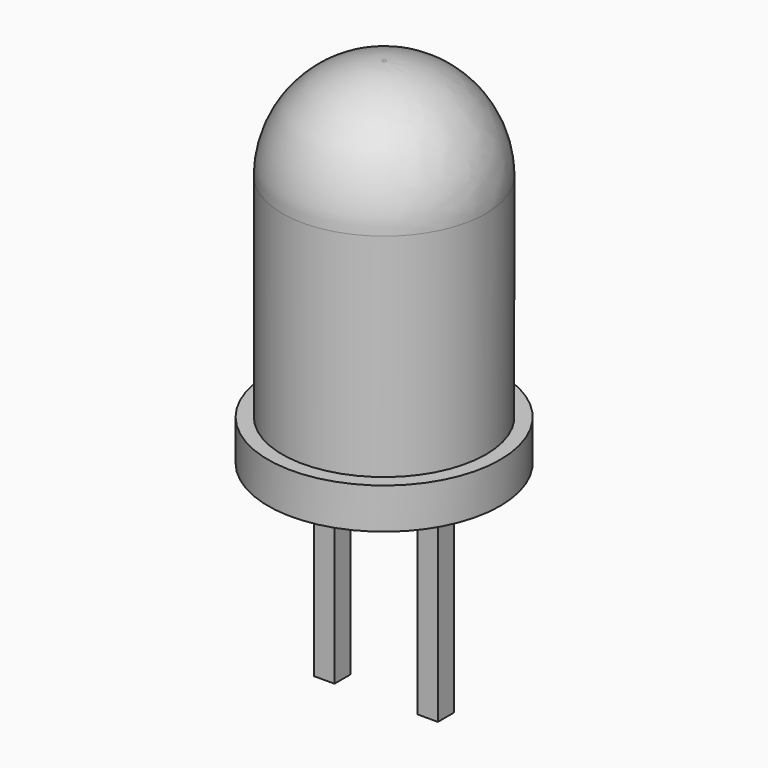
from build123d import *

# Parameters (mm, degrees)
SKETCH001_W = 0.5
SKETCH001_H = 0.5
PAD_DEPTH   = 5
FILLET_R    = 2.49


with BuildPart() as part:
    # Sketch → Revolution (revolve)
    with BuildSketch(Plane.XZ):
        with BuildLine():
            Line((0, 0), (2.85, 0))
            Line((2.85, 0), (2.85, 1))
            Line((2.85, 1), (2.5, 1))
            Line((2.5, 1), (2.5, 7.5))
            ThreePointArc((2.5, 7.5), (1.386542, 8.384463), (0, 8.7))
            Line((0, 0), (0, 8.7))
        make_face()
    revolve(axis=Axis((0, 0, 0), (0, 0, 1)))

    # Sketch001 (on Face1 of Revolution) → Pad (new body)
    with BuildSketch(Plane(origin=(0, 0, 0), x_dir=(1, 0, 0), z_dir=(0, 0, -1))):
        with Locations((1.27, 0)):
            Rectangle(SKETCH001_W, SKETCH001_H)
        with Locations((-1.27, 0)):
            Rectangle(SKETCH001_W, SKETCH001_H)
    extrude(amount=PAD_DEPTH)

    # Fillet
    fillet_edges = [part.edges().sort_by_distance(p)[0] for p in [
        (-2.5, 0, 7.5),
    ]]
    fillet(fillet_edges, radius=FILLET_R)


solid = part.part
